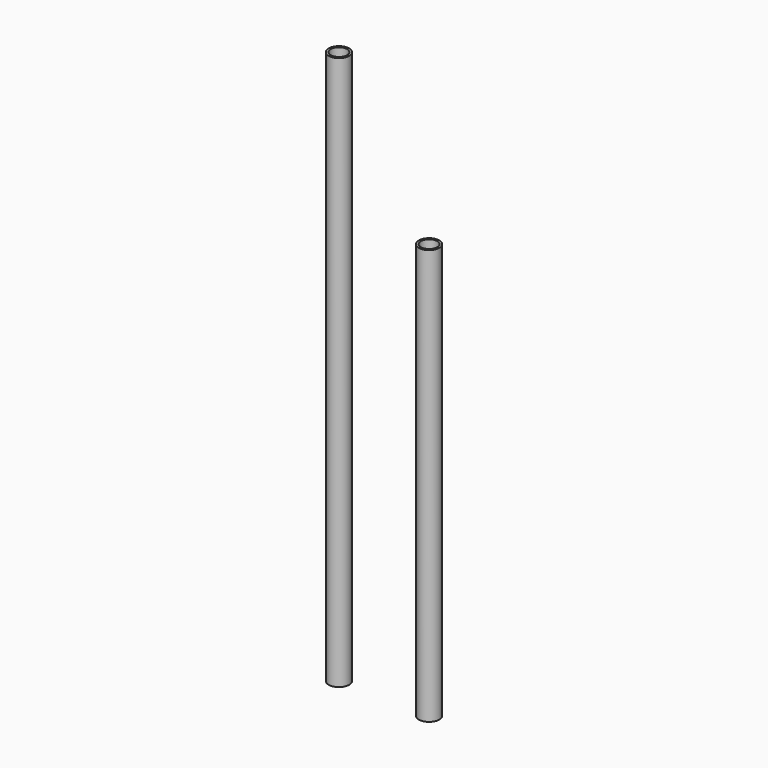
from build123d import *

# Parameters (mm, degrees)
F0_R     = 11.27
F0_R_2   = 9
F1_DEPTH = 609.6
F2_DEPTH = 457.2


with BuildPart() as f1:
    # F0 (on Top) → F1 (new body)
    with BuildSketch(Plane.XY):
        with Locations((-51.0697, 30.866606)):
            Circle(F0_R)
        with Locations((-51.0697, 30.866606)):
            Circle(F0_R_2, mode=Mode.SUBTRACT)
    extrude(amount=F1_DEPTH)


with BuildPart() as f2:
    # F0 (on Top) → F2 (new body)
    with BuildSketch(Plane.XY):
        with Locations((49.938585, 28.702145)):
            Circle(F0_R)
        with Locations((49.938585, 28.702145)):
            Circle(F0_R_2, mode=Mode.SUBTRACT)
    extrude(amount=F2_DEPTH)


solid = Compound([f1.part, f2.part])
